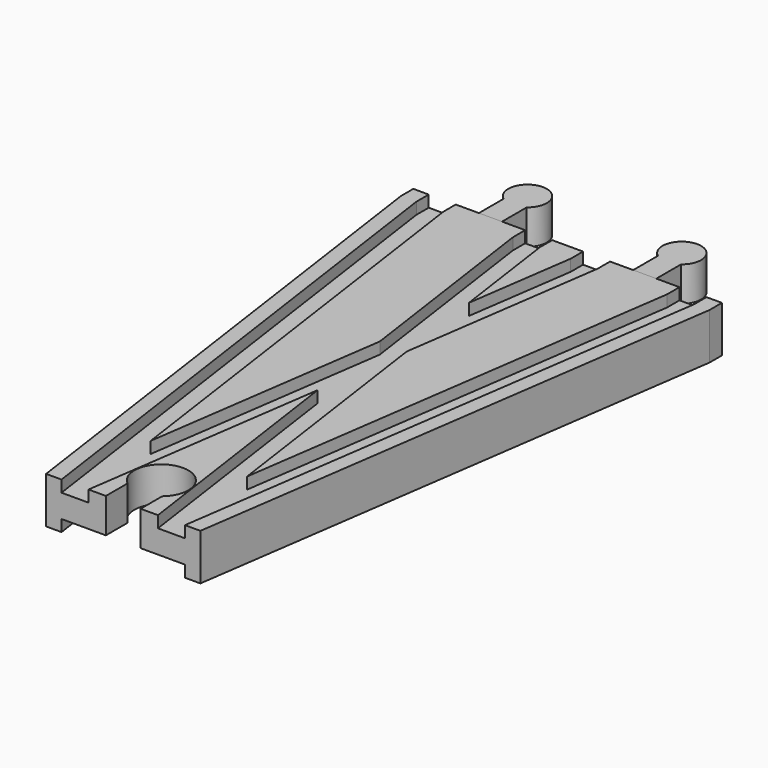
from build123d import *

# Parameters (mm, degrees)
SKETCH004_W       = 32
SKETCH004_H       = 3
SKETCH005_W       = 7
SKETCH005_H       = 3
SKETCH006_W       = 7
SKETCH006_H       = 3
POCKET_DEPTH      = 6.001
POCKET_DEPTH_BACK = -6.001
PAD001_DEPTH      = 6
PAD001_DEPTH_BACK = 3
PAD002_DEPTH      = 6
PAD002_DEPTH_BACK = 3


with BuildPart() as body:
    # AdditivePipe: sweep along a path in Sketch
    with BuildLine(Plane.XY) as additivepipe_path:
        Line((-20, 144), (-20, 140))
        Line((-20, 140), (0, 0))
    # Sketch002 → AdditivePipe (sweep)
    with BuildSketch(Plane.XZ):
        Polygon((-20, 6), (-20, -6), (-16, -6), (-16, -3), (-9, -3), (9, -3), (16, -3), (16, -6), (20, -6), (20, 6), (16, 6), (16, 3), (9, 3), (9, 6), (-9, 6), (-9, 3), (-16, 3), (-16, 6), align=None)
    sweep(path=additivepipe_path.line)

    # AdditivePipe001: sweep along a path in Sketch001
    with BuildLine(Plane.XY) as additivepipe001_path:
        Line((20, 144), (20, 140))
        Line((20, 140), (0, 0))
    # Sketch002 → AdditivePipe001 (sweep)
    with BuildSketch(Plane.XZ):
        Polygon((-20, 6), (-20, -6), (-16, -6), (-16, -3), (-9, -3), (9, -3), (16, -3), (16, -6), (20, -6), (20, 6), (16, 6), (16, 3), (9, 3), (9, 6), (-9, 6), (-9, 3), (-16, 3), (-16, 6), align=None)
    sweep(path=additivepipe001_path.line)

    # SubtractivePipe: sweep along a path in Sketch
    with BuildLine(Plane.XY) as subtractivepipe_path:
        Line((-20, 144), (-20, 140))
        Line((-20, 140), (0, 0))
    # Sketch004 → SubtractivePipe (sweep, cut)
    with BuildSketch(Plane.XZ):
        with Locations((0, -4.5)):
            Rectangle(SKETCH004_W, SKETCH004_H)
    sweep(path=subtractivepipe_path.line, mode=Mode.SUBTRACT)

    # SubtractivePipe001: sweep along a path in Sketch001
    with BuildLine(Plane.XY) as subtractivepipe001_path:
        Line((20, 144), (20, 140))
        Line((20, 140), (0, 0))
    # Sketch004 → SubtractivePipe001 (sweep, cut)
    with BuildSketch(Plane.XZ):
        with Locations((0, -4.5)):
            Rectangle(SKETCH004_W, SKETCH004_H)
    sweep(path=subtractivepipe001_path.line, mode=Mode.SUBTRACT)

    # SubtractivePipe002: sweep along a path in Sketch
    with BuildLine(Plane.XY) as subtractivepipe002_path:
        Line((-20, 144), (-20, 140))
        Line((-20, 140), (0, 0))
    # Sketch005 → SubtractivePipe002 (sweep, cut)
    with BuildSketch(Plane.XZ):
        with Locations((-12.5, 4.5)):
            Rectangle(SKETCH005_W, SKETCH005_H)
    sweep(path=subtractivepipe002_path.line, mode=Mode.SUBTRACT)

    # SubtractivePipe003: sweep along a path in Sketch001
    with BuildLine(Plane.XY) as subtractivepipe003_path:
        Line((20, 144), (20, 140))
        Line((20, 140), (0, 0))
    # Sketch005 → SubtractivePipe003 (sweep, cut)
    with BuildSketch(Plane.XZ):
        with Locations((-12.5, 4.5)):
            Rectangle(SKETCH005_W, SKETCH005_H)
    sweep(path=subtractivepipe003_path.line, mode=Mode.SUBTRACT)

    # SubtractivePipe004: sweep along a path in Sketch
    with BuildLine(Plane.XY) as subtractivepipe004_path:
        Line((-20, 144), (-20, 140))
        Line((-20, 140), (0, 0))
    # Sketch006 → SubtractivePipe004 (sweep, cut)
    with BuildSketch(Plane.XZ):
        with Locations((12.5, 4.5)):
            Rectangle(SKETCH006_W, SKETCH006_H)
    sweep(path=subtractivepipe004_path.line, mode=Mode.SUBTRACT)

    # SubtractivePipe005: sweep along a path in Sketch001
    with BuildLine(Plane.XY) as subtractivepipe005_path:
        Line((20, 144), (20, 140))
        Line((20, 140), (0, 0))
    # Sketch006 → SubtractivePipe005 (sweep, cut)
    with BuildSketch(Plane.XZ):
        with Locations((12.5, 4.5)):
            Rectangle(SKETCH006_W, SKETCH006_H)
    sweep(path=subtractivepipe005_path.line, mode=Mode.SUBTRACT)

    # Sketch003 → Pocket (cut, two sides)
    with BuildSketch(Plane.XY) as pocket_sk:
        with BuildLine():
            Line((-4.5, 0), (4.5, 0))
            Line((4.5, 0), (4.5, 7))
            ThreePointArc((4.5, 7), (0, 19.361903), (-4.5, 7))
            Line((-4.5, 0), (-4.5, 7))
        make_face()
    extrude(amount=-POCKET_DEPTH, mode=Mode.SUBTRACT)
    extrude(pocket_sk.sketch, amount=-POCKET_DEPTH_BACK, mode=Mode.SUBTRACT)


with BuildPart() as male2:
    # Sketch010 → Pad001 (new body, two sides)
    with BuildSketch(Plane.XY) as pad001_sk:
        with BuildLine():
            Line((-23, 144), (-17, 144))
            Line((-17, 144), (-17, 152))
            ThreePointArc((-17, 152), (-20, 161), (-23, 152))
            Line((-23, 144), (-23, 152))
        make_face()
    extrude(amount=PAD001_DEPTH)
    extrude(pad001_sk.sketch, amount=-PAD001_DEPTH_BACK)


with BuildPart() as male3:
    # Sketch011 → Pad002 (new body, two sides)
    with BuildSketch(Plane.XY) as pad002_sk:
        with BuildLine():
            Line((17, 144), (23, 144))
            Line((23, 144), (23, 152))
            ThreePointArc((23, 152), (20, 161), (17, 152))
            Line((17, 144), (17, 152))
        make_face()
    extrude(amount=PAD002_DEPTH)
    extrude(pad002_sk.sketch, amount=-PAD002_DEPTH_BACK)


solid = Compound([body.part, male2.part, male3.part])
